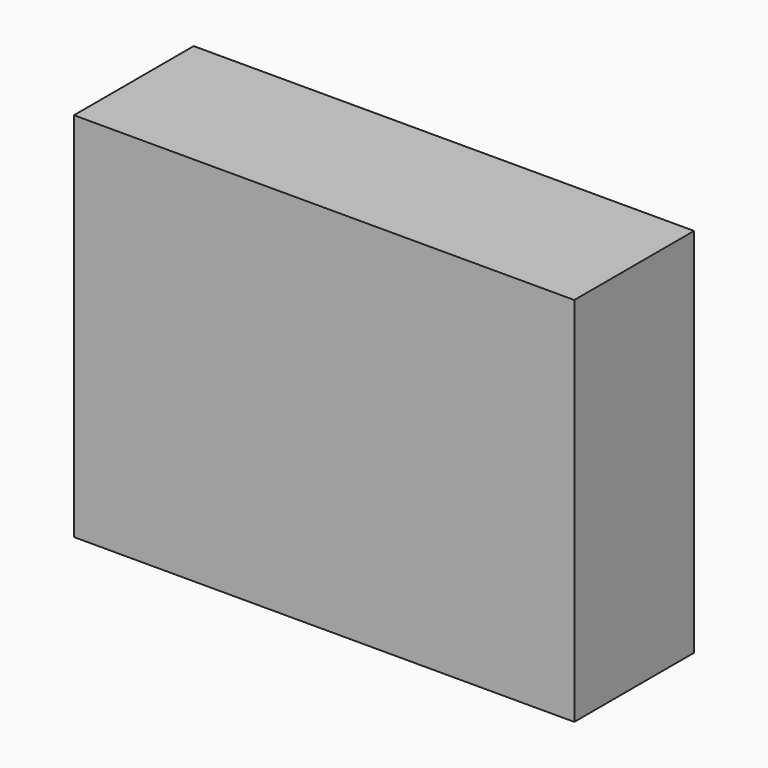
from build123d import *

# Parameters (mm, degrees)
F0_W     = 84.902704
F0_H     = 63.02946
F0_W_2   = 75.117304
F0_H_2   = 54.970898
F0_W_3   = 61.014818
F0_H_3   = 17.843956
F0_W_4   = 60.1514
F0_H_4   = 18.419567
F1_DEPTH = 25.4
F2_DEPTH = 12.7
F3_DEPTH = 20.32


with BuildPart() as f1:
    # F0 (on Front) → F1 (new body)
    with BuildSketch(Plane.XZ):
        Rectangle(F0_W, F0_H)
        Rectangle(F0_W_2, F0_H_2, mode=Mode.SUBTRACT)
        Rectangle(F0_W_2, F0_H_2)
        with Locations((0.719513, -14.246385)):
            Rectangle(F0_W_3, F0_H_3, mode=Mode.SUBTRACT)
        with Locations((-1e-06, 14.53419)):
            Rectangle(F0_W_4, F0_H_4, mode=Mode.SUBTRACT)
        with Locations((-1e-06, 14.53419)):
            Rectangle(F0_W_4, F0_H_4)
        with Locations((0.719513, -14.246385)):
            Rectangle(F0_W_3, F0_H_3)
    extrude(amount=F1_DEPTH)

    # F0 (on Front) → F2 (cut)
    with BuildSketch(Plane.XZ):
        Rectangle(F0_W_2, F0_H_2)
        with Locations((0.719513, -14.246385)):
            Rectangle(F0_W_3, F0_H_3, mode=Mode.SUBTRACT)
        with Locations((-1e-06, 14.53419)):
            Rectangle(F0_W_4, F0_H_4, mode=Mode.SUBTRACT)
        with Locations((-1e-06, 14.53419)):
            Rectangle(F0_W_4, F0_H_4)
        with Locations((0.719513, -14.246385)):
            Rectangle(F0_W_3, F0_H_3)
    extrude(amount=F2_DEPTH, mode=Mode.SUBTRACT)

    # F0 (on Front) → F3 (cut)
    with BuildSketch(Plane.XZ):
        with Locations((-1e-06, 14.53419)):
            Rectangle(F0_W_4, F0_H_4)
        with Locations((0.719513, -14.246385)):
            Rectangle(F0_W_3, F0_H_3)
    extrude(amount=F3_DEPTH, mode=Mode.SUBTRACT)


solid = f1.part
